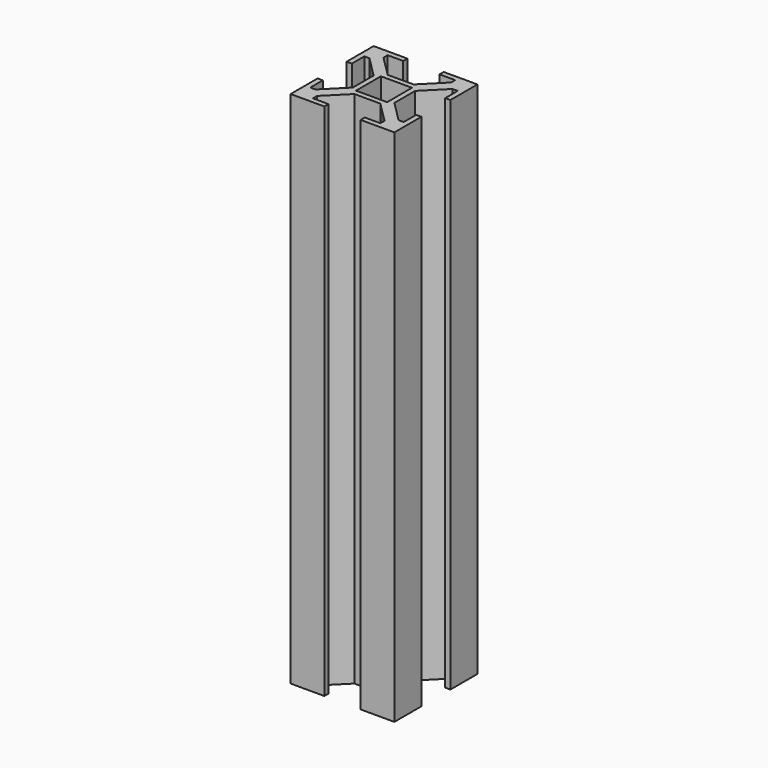
from build123d import *

# Parameters (mm, degrees)
SKETCH_W        = 20
SKETCH_H        = 20
PAD_DEPTH       = 100
SKETCH001_W     = 6
SKETCH001_H     = 6
POCKET_DEPTH    = 100.001
POCKET001_DEPTH = 100.001


with BuildPart() as part:
    # Sketch → Pad (new body)
    with BuildSketch(Plane.XY):
        with Locations((10, 10)):
            Rectangle(SKETCH_W, SKETCH_H)
    extrude(amount=PAD_DEPTH)

    # Sketch001 (on Face6 of Pad) → Pocket (cut, through all)
    with BuildSketch(Plane.XY.offset(100)):
        with Locations((10, 10)):
            Rectangle(SKETCH001_W, SKETCH001_H)
    extrude(amount=-POCKET_DEPTH, mode=Mode.SUBTRACT)

    # Sketch002 (on Face5 of Pocket) → Pocket001 (cut, through all)
    with BuildSketch(Plane.XY.offset(100)):
        Polygon((0, 6.5), (1, 6.5), (1, 3.5), (2, 3.5), (6, 7.5), (6, 12.5), (2, 16.5), (1, 16.5), (1, 13.5), (0, 13.5), align=None)
        Polygon((6.5, 0), (6.5, 1), (3.5, 1), (3.5, 2), (7.5, 6), (12.5, 6), (16.5, 2), (16.5, 1), (13.5, 1), (13.5, 0), align=None)
        Polygon((20, 6.5), (19, 6.5), (19, 3.5), (18, 3.5), (14, 7.5), (14, 12.5), (18, 16.5), (19, 16.5), (19, 13.5), (20, 13.5), align=None)
        Polygon((6.5, 20), (6.5, 19), (3.5, 19), (3.5, 18), (7.5, 14), (12.5, 14), (16.5, 18), (16.5, 19), (13.5, 19), (13.5, 20), align=None)
    extrude(amount=-POCKET001_DEPTH, mode=Mode.SUBTRACT)


solid = part.part
